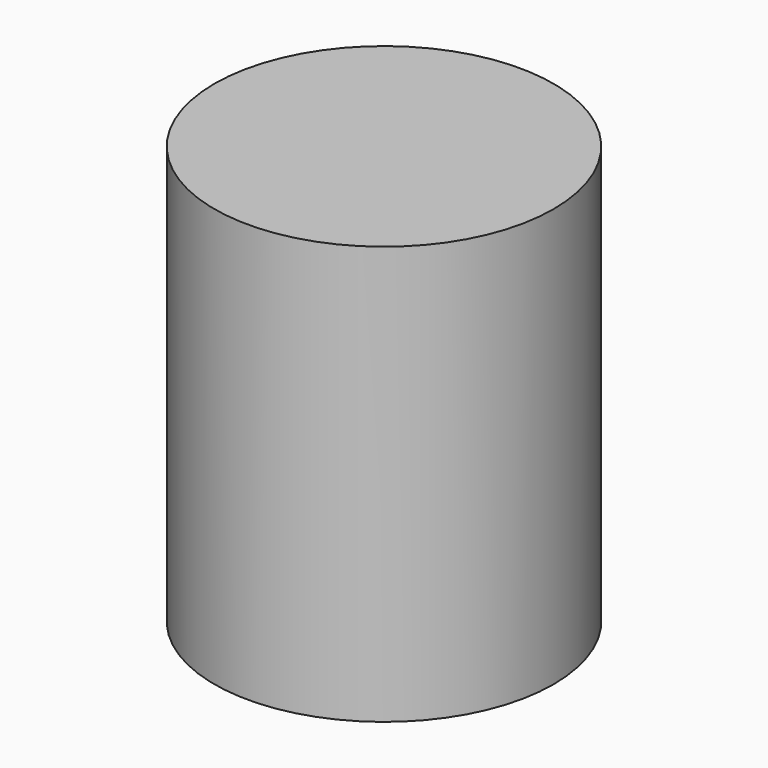
from build123d import *

# Parameters (mm, degrees)
CYLINDER_R     = 6.0833
CYLINDER_DEPTH = 15


with BuildPart() as part:
    # Cylinder → Cylinder (new body)
    with BuildSketch(Plane.XY.offset(-2.5)):
        Circle(CYLINDER_R)
    extrude(amount=CYLINDER_DEPTH)


solid = part.part
